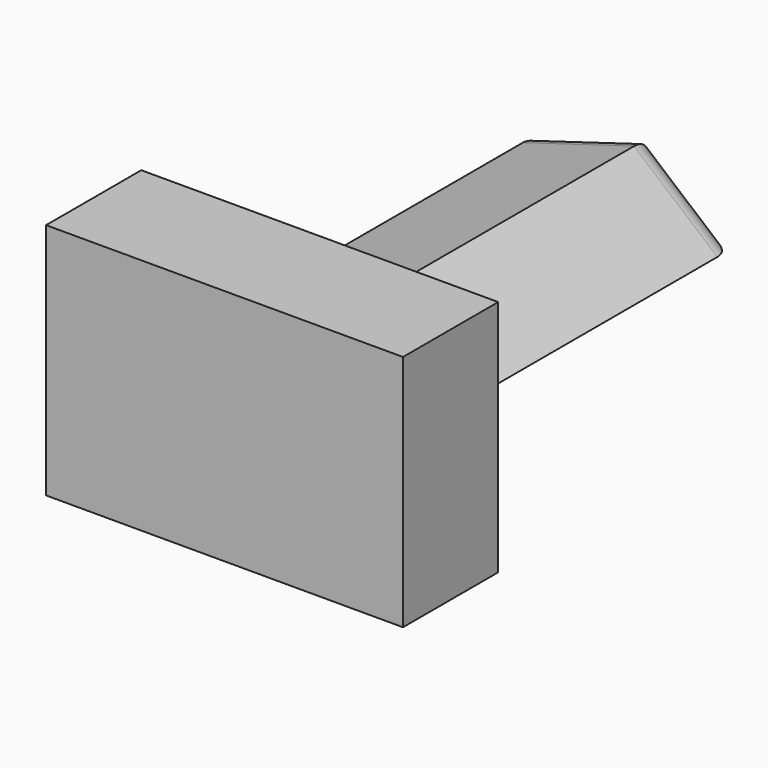
from build123d import *

# Parameters (mm, degrees)
F0_W     = 76.2
F0_H     = 50.8
F1_DEPTH = 25.4
F3_DEPTH = 76.2
F4_R     = 5.08


with BuildPart() as f1:
    # F0 (on Front) → F1 (new body)
    with BuildSketch(Plane.XZ):
        with Locations((38.1, 25.4)):
            Rectangle(F0_W, F0_H)
    extrude(amount=F1_DEPTH)

    # F2 (on face) → F3 (join)
    with BuildSketch(Plane(origin=(0, 0, 0), x_dir=(-1, 0, 0), z_dir=(0, 1, 0))):
        Polygon((-43.975126, 9.23935), (-17.735837, 16.768539), (-24.533954, 35.03225), (-48.317943, 42.131286), (-66.098824, 27.070532), align=None)
    extrude(amount=F3_DEPTH)

    # F4
    f4_edges = [f1.edges().sort_by_distance(p)[0] for p in [
        (55.036975, 76.2, 18.154941),
        (30.855482, 76.2, 13.003944),
        (21.134895, 76.2, 25.900395),
        (36.425948, 76.2, 38.581768),
        (57.208383, 76.2, 34.600909),
    ]]
    fillet(f4_edges, radius=F4_R)


solid = f1.part
